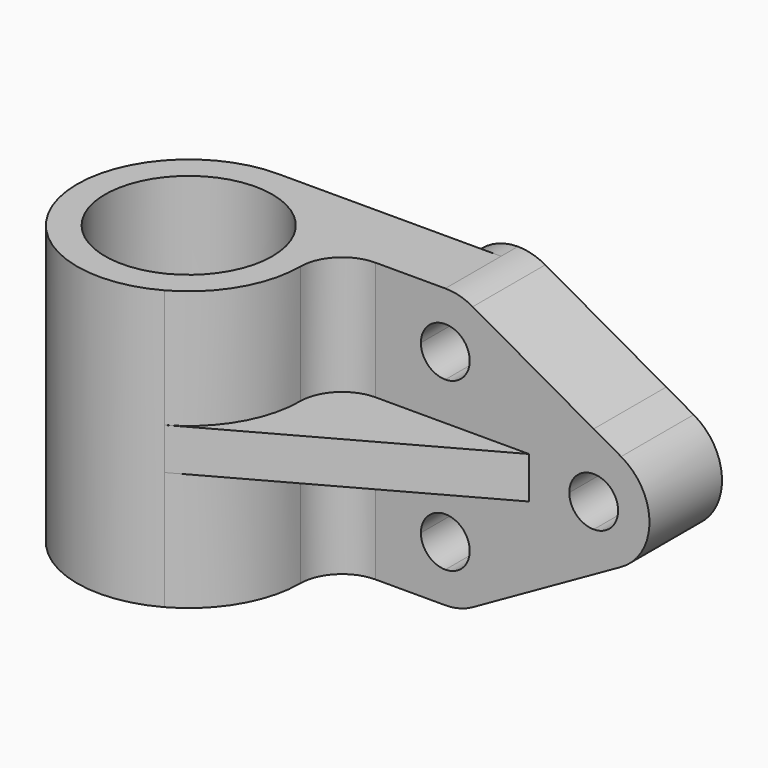
from build123d import *

# Parameters (mm, degrees)
F0_R     = 19.05
F1_DEPTH = 31.75
F2_DEPTH = 4.7625
F4_R     = 5.5626
F5_DEPTH = 20.6502
F6_DEPTH = 55.5762


with BuildPart() as f1:
    # F0 (on Top) → F1 (new body, symmetric)
    with BuildSketch(Plane.XY):
        with BuildLine():
            ThreePointArc((12.269125, -22.240247), (21.872309, -12.913641), (25.4, 0))
            ThreePointArc((25.4, 0), (28.189808, 6.735192), (34.925, 9.525))
            Line((34.925, 9.525), (69.85, 9.525))
            Line((69.85, 9.525), (84.582, 9.525))
            Line((84.582, 9.525), (84.582, 30.1752))
            Line((84.582, 30.1752), (50.8, 30.1752))
            Line((50.8, 30.1752), (50.8, 25.4))
            Line((50.8, 25.4), (0, 25.4))
            ThreePointArc((0, 25.4), (-24.597381, -6.334735), (12.269125, -22.240247))
        make_face()
        Circle(F0_R, mode=Mode.SUBTRACT)
    extrude(amount=F1_DEPTH, both=True)

    # F0 (on Top) → F2 (join, symmetric)
    with BuildSketch(Plane.XY):
        with BuildLine():
            ThreePointArc((34.925, 9.525), (28.189808, 6.735192), (25.4, 0))
            ThreePointArc((25.4, 0), (21.872309, -12.913641), (12.269125, -22.240247))
            Line((12.269125, -22.240247), (69.85, 9.525))
            Line((69.85, 9.525), (34.925, 9.525))
        make_face()
    extrude(amount=F2_DEPTH, both=True)

    # F4 (on face) → F5 (join)
    with BuildSketch(Plane(origin=(0, 30.1752, 0), x_dir=(-1, 0, 0), z_dir=(0, 1, 0))):
        with BuildLine():
            Line((-38.1, -19.05), (-38.1, 19.05))
            ThreePointArc((-38.1, 19.05), (-44.394325, 30.01619), (-57.038161, 30.112339))
            Line((-57.038161, 30.112339), (-90.820161, 11.062339))
            ThreePointArc((-90.820161, 11.062339), (-97.282, 0), (-90.820161, -11.062339))
            Line((-90.820161, -11.062339), (-57.038161, -30.112339))
            ThreePointArc((-57.038161, -30.112339), (-44.394325, -30.01619), (-38.1, -19.05))
        make_face()
        with Locations((-50.8, -19.05)):
            Circle(F4_R, mode=Mode.SUBTRACT)
        with Locations((-84.582, 0)):
            Circle(F4_R, mode=Mode.SUBTRACT)
        with Locations((-50.8, 19.05)):
            Circle(F4_R, mode=Mode.SUBTRACT)
    extrude(amount=-F5_DEPTH)

    # F4 (on face) → F6 (cut, through all)
    with BuildSketch(Plane(origin=(0, 30.1752, 0), x_dir=(-1, 0, 0), z_dir=(0, 1, 0))):
        with BuildLine():
            ThreePointArc((-45.2374, -19.05), (-46.866648, -15.116648), (-50.8, -13.4874))
            Line((-50.8, -13.4874), (-50.8, -24.6126))
            ThreePointArc((-50.8, -24.6126), (-46.866648, -22.983352), (-45.2374, -19.05))
        make_face()
        with BuildLine():
            Line((-50.8, 13.4874), (-50.8, 24.6126))
            ThreePointArc((-50.8, 24.6126), (-56.3626, 19.05), (-50.8, 13.4874))
        make_face()
        with BuildLine():
            ThreePointArc((-79.0194, 0), (-80.648648, 3.933352), (-84.582, 5.5626))
            Line((-84.582, 5.5626), (-84.582, -5.5626))
            ThreePointArc((-84.582, -5.5626), (-80.648648, -3.933352), (-79.0194, 0))
        make_face()
        with BuildLine():
            ThreePointArc((-50.8, 13.4874), (-46.866648, 15.116648), (-45.2374, 19.05))
            ThreePointArc((-45.2374, 19.05), (-46.866648, 22.983352), (-50.8, 24.6126))
            Line((-50.8, 24.6126), (-50.8, 13.4874))
        make_face()
        with BuildLine():
            Line((-50.8, -24.6126), (-50.8, -13.4874))
            ThreePointArc((-50.8, -13.4874), (-56.3626, -19.05), (-50.8, -24.6126))
        make_face()
        with BuildLine():
            ThreePointArc((-57.038161, 30.112339), (-54.024771, 31.333764), (-50.8, 31.75))
            Line((-50.8, 31.75), (-84.582, 31.75))
            Line((-84.582, 31.75), (-84.582, 14.580099))
            Line((-84.582, 14.580099), (-57.038161, 30.112339))
        make_face()
        with BuildLine():
            Line((-84.582, -31.75), (-50.8, -31.75))
            ThreePointArc((-50.8, -31.75), (-54.024771, -31.333764), (-57.038161, -30.112339))
            Line((-57.038161, -30.112339), (-84.582, -14.580099))
            Line((-84.582, -14.580099), (-84.582, -31.75))
        make_face()
    extrude(amount=-F6_DEPTH, mode=Mode.SUBTRACT)


solid = f1.part
